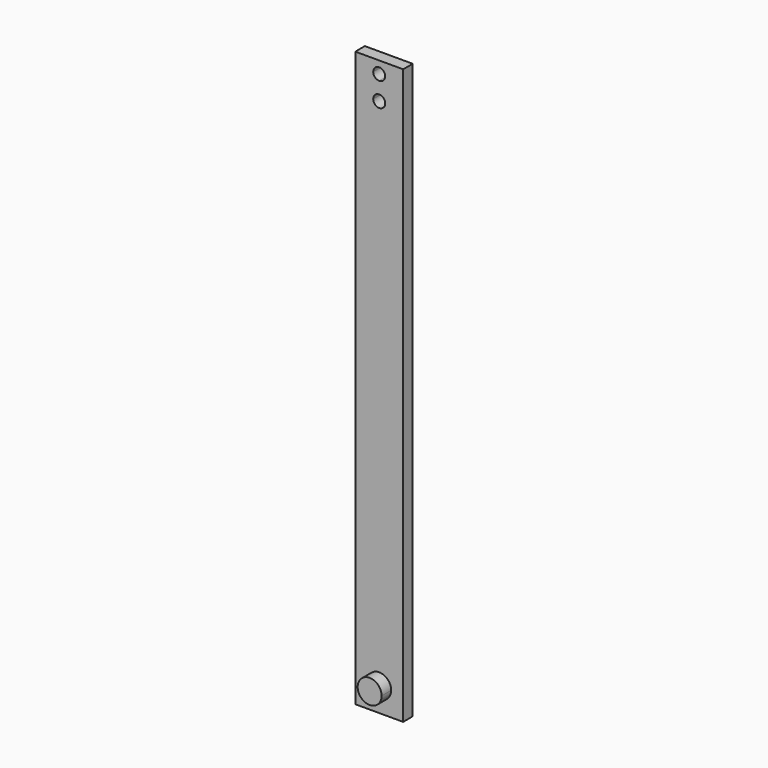
from build123d import *

# Parameters (mm, degrees)
F1_DEPTH = 6.35
F2_DEPTH = 12.7
F3_DEPTH = 24.638


with BuildPart() as f1:
    # F0 (on Front) → F1 (new body)
    with BuildSketch(Plane.XZ):
        with BuildLine():
            Line((-1.0786289811, 247.65), (-10.6036289811, 247.65))
            Line((-10.6036289811, 247.65), (-10.6036289811, -38.1))
            Line((-10.6036289811, -38.1), (2.0963710189, -38.1))
            Line((2.0963710189, -38.1), (14.7963710189, -38.1))
            Line((14.7963710189, -38.1), (14.7963710189, 247.65))
            Line((14.7963710189, 247.65), (5.2713710189, 247.65))
            ThreePointArc((5.2713710189, 247.65), (2.0963710189, 244.475), (-1.0786289811, 247.65))
        make_face()
        with BuildLine():
            ThreePointArc((8.4463710189, -25.4), (6.5864990794, -29.8901280605), (2.0963710189, -31.75))
            ThreePointArc((2.0963710189, -31.75), (-2.3937570416, -20.9098719395), (8.4463710189, -25.4))
        make_face(mode=Mode.SUBTRACT)
        with BuildLine():
            Line((-1.0786289811, 260.35), (-10.6036289811, 260.35))
            Line((-10.6036289811, 260.35), (-10.6036289811, 247.65))
            Line((-10.6036289811, 247.65), (-1.0786289811, 247.65))
            ThreePointArc((-1.0786289811, 247.65), (-0.1486930114, 249.8950640303), (2.0963710189, 250.825))
            Line((2.0963710189, 250.825), (2.0963710189, 257.175))
            ThreePointArc((2.0963710189, 257.175), (-0.1486930114, 258.1049359697), (-1.0786289811, 260.35))
        make_face()
        with BuildLine():
            Line((14.7963710189, 247.65), (14.7963710189, 260.35))
            Line((14.7963710189, 260.35), (5.2713710189, 260.35))
            ThreePointArc((5.2713710189, 260.35), (4.3414350492, 258.1049359697), (2.0963710189, 257.175))
            Line((2.0963710189, 257.175), (2.0963710189, 250.825))
            ThreePointArc((2.0963710189, 250.825), (4.3414350492, 249.8950640303), (5.2713710189, 247.65))
            Line((5.2713710189, 247.65), (14.7963710189, 247.65))
        make_face()
        with BuildLine():
            ThreePointArc((8.4463710189, -25.4), (-2.3937570416, -20.9098719395), (2.0963710189, -31.75))
            ThreePointArc((2.0963710189, -31.75), (6.5864990794, -29.8901280605), (8.4463710189, -25.4))
        make_face()
        with BuildLine():
            Line((2.0963710189, 266.7), (-10.6036289811, 266.7))
            Line((-10.6036289811, 266.7), (-10.6036289811, 260.35))
            Line((-10.6036289811, 260.35), (-1.0786289811, 260.35))
            ThreePointArc((-1.0786289811, 260.35), (-0.1486930114, 262.5950640303), (2.0963710189, 263.525))
            Line((2.0963710189, 263.525), (2.0963710189, 266.7))
        make_face()
        with BuildLine():
            Line((14.7963710189, 266.7), (2.0963710189, 266.7))
            Line((2.0963710189, 266.7), (2.0963710189, 263.525))
            ThreePointArc((2.0963710189, 263.525), (4.3414350492, 262.5950640303), (5.2713710189, 260.35))
            Line((5.2713710189, 260.35), (14.7963710189, 260.35))
            Line((14.7963710189, 260.35), (14.7963710189, 266.7))
        make_face()
        with BuildLine():
            Line((2.0963710189, 247.65), (-1.0786289811, 247.65))
            ThreePointArc((-1.0786289811, 247.65), (2.0963710189, 244.475), (5.2713710189, 247.65))
            Line((5.2713710189, 247.65), (2.0963710189, 247.65))
        make_face()
        with BuildLine():
            Line((5.2713710189, 260.35), (2.0963710189, 260.35))
            Line((2.0963710189, 260.35), (2.0963710189, 257.175))
            ThreePointArc((2.0963710189, 257.175), (4.3414350492, 258.1049359697), (5.2713710189, 260.35))
        make_face()
        with BuildLine():
            ThreePointArc((2.0963710189, 250.825), (-0.1486930114, 249.8950640303), (-1.0786289811, 247.65))
            Line((-1.0786289811, 247.65), (2.0963710189, 247.65))
            Line((2.0963710189, 247.65), (2.0963710189, 250.825))
        make_face()
        with BuildLine():
            Line((2.0963710189, 260.35), (2.0963710189, 263.525))
            ThreePointArc((2.0963710189, 263.525), (-0.1486930114, 262.5950640303), (-1.0786289811, 260.35))
            Line((-1.0786289811, 260.35), (2.0963710189, 260.35))
        make_face()
        with BuildLine():
            Line((2.0963710189, 260.35), (-1.0786289811, 260.35))
            ThreePointArc((-1.0786289811, 260.35), (-0.1486930114, 258.1049359697), (2.0963710189, 257.175))
            Line((2.0963710189, 257.175), (2.0963710189, 260.35))
        make_face()
        with BuildLine():
            ThreePointArc((5.2713710189, 260.35), (4.3414350492, 262.5950640303), (2.0963710189, 263.525))
            Line((2.0963710189, 263.525), (2.0963710189, 260.35))
            Line((2.0963710189, 260.35), (5.2713710189, 260.35))
        make_face()
        with BuildLine():
            Line((2.0963710189, 250.825), (2.0963710189, 247.65))
            Line((2.0963710189, 247.65), (5.2713710189, 247.65))
            ThreePointArc((5.2713710189, 247.65), (4.3414350492, 249.8950640303), (2.0963710189, 250.825))
        make_face()
    extrude(amount=F1_DEPTH)

    # F0 (on Front) → F2 (join)
    with BuildSketch(Plane.XZ):
        with BuildLine():
            ThreePointArc((8.4463710189, -25.4), (-2.3937570416, -20.9098719395), (2.0963710189, -31.75))
            ThreePointArc((2.0963710189, -31.75), (6.5864990794, -29.8901280605), (8.4463710189, -25.4))
        make_face()
    extrude(amount=F2_DEPTH)

    # F0 (on Front) → F3 (cut)
    with BuildSketch(Plane.XZ):
        with BuildLine():
            Line((2.0963710189, 250.825), (2.0963710189, 247.65))
            Line((2.0963710189, 247.65), (5.2713710189, 247.65))
            ThreePointArc((5.2713710189, 247.65), (4.3414350492, 249.8950640303), (2.0963710189, 250.825))
        make_face()
        with BuildLine():
            ThreePointArc((2.0963710189, 250.825), (-0.1486930114, 249.8950640303), (-1.0786289811, 247.65))
            Line((-1.0786289811, 247.65), (2.0963710189, 247.65))
            Line((2.0963710189, 247.65), (2.0963710189, 250.825))
        make_face()
        with BuildLine():
            Line((2.0963710189, 247.65), (-1.0786289811, 247.65))
            ThreePointArc((-1.0786289811, 247.65), (2.0963710189, 244.475), (5.2713710189, 247.65))
            Line((5.2713710189, 247.65), (2.0963710189, 247.65))
        make_face()
        with BuildLine():
            ThreePointArc((5.2713710189, 260.35), (4.3414350492, 262.5950640303), (2.0963710189, 263.525))
            Line((2.0963710189, 263.525), (2.0963710189, 260.35))
            Line((2.0963710189, 260.35), (5.2713710189, 260.35))
        make_face()
        with BuildLine():
            Line((2.0963710189, 260.35), (2.0963710189, 263.525))
            ThreePointArc((2.0963710189, 263.525), (-0.1486930114, 262.5950640303), (-1.0786289811, 260.35))
            Line((-1.0786289811, 260.35), (2.0963710189, 260.35))
        make_face()
        with BuildLine():
            Line((2.0963710189, 260.35), (-1.0786289811, 260.35))
            ThreePointArc((-1.0786289811, 260.35), (-0.1486930114, 258.1049359697), (2.0963710189, 257.175))
            Line((2.0963710189, 257.175), (2.0963710189, 260.35))
        make_face()
        with BuildLine():
            Line((5.2713710189, 260.35), (2.0963710189, 260.35))
            Line((2.0963710189, 260.35), (2.0963710189, 257.175))
            ThreePointArc((2.0963710189, 257.175), (4.3414350492, 258.1049359697), (5.2713710189, 260.35))
        make_face()
    extrude(amount=F3_DEPTH, mode=Mode.SUBTRACT)


solid = f1.part
